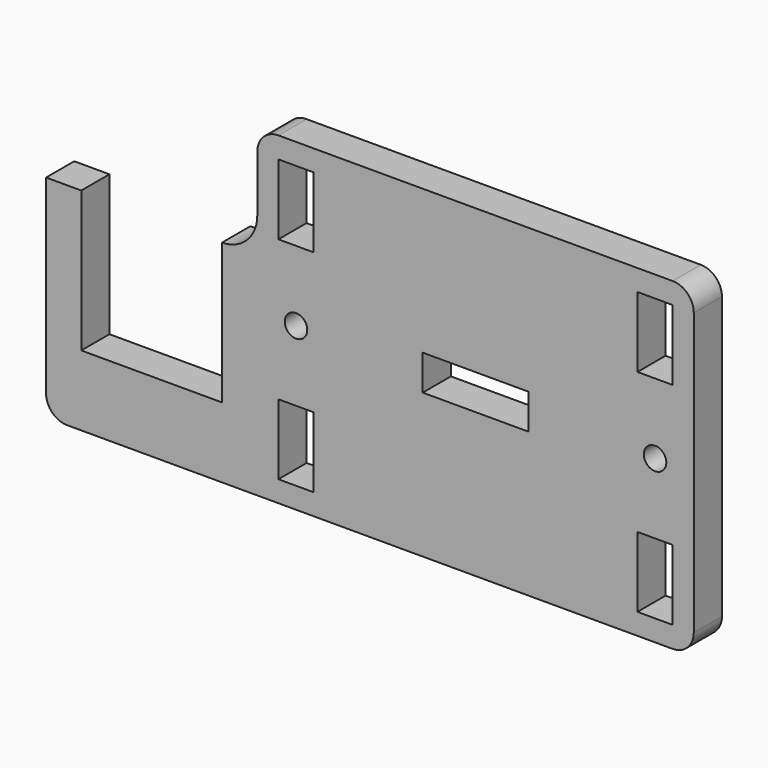
from build123d import *

# Parameters (mm, degrees)
F1_W     = 5
F1_H     = 10
F1_R     = 1.6
F1_W_2   = 15
F1_H_2   = 5
F2_DEPTH = 5


with BuildPart() as f2:
    # F1 (on Front) → F2 (new body)
    with BuildSketch(Plane.XZ):
        with BuildLine():
            Line((-21, 35), (-21, 27))
            ThreePointArc((-21, 27), (-22.4644660941, 23.4644660941), (-26, 22))
            Line((-26, 22), (-26, 2))
            Line((-26, 2), (-46.0000009239, 2))
            Line((-46.0000009239, 2), (-46.0000009239, 22.0000018477))
            Line((-46.0000009239, 22.0000018477), (-51, 22.0000018477))
            Line((-51, 22.0000018477), (-51, -5))
            ThreePointArc((-51, -5), (-50.1213203436, -7.1213203436), (-48, -8))
            Line((-48, -8), (38, -8))
            ThreePointArc((38, -8), (40.1213203436, -7.1213203436), (41, -5))
            Line((41, -5), (41, 35))
            ThreePointArc((41, 35), (40.1213203436, 37.1213203436), (38, 38))
            Line((38, 38), (-18, 38))
            ThreePointArc((-18, 38), (-20.1213203436, 37.1213203436), (-21, 35))
        make_face()
        with Locations((-15.5, 0)):
            Rectangle(F1_W, F1_H, mode=Mode.SUBTRACT)
        with Locations((35.5, 0)):
            Rectangle(F1_W, F1_H, mode=Mode.SUBTRACT)
        with Locations((-15.5, 15)):
            Circle(F1_R, mode=Mode.SUBTRACT)
        with Locations((-15.5, 30)):
            Rectangle(F1_W, F1_H, mode=Mode.SUBTRACT)
        with Locations((10, 15)):
            Rectangle(F1_W_2, F1_H_2, mode=Mode.SUBTRACT)
        with Locations((35.5, 15)):
            Circle(F1_R, mode=Mode.SUBTRACT)
        with Locations((35.5, 30)):
            Rectangle(F1_W, F1_H, mode=Mode.SUBTRACT)
    extrude(amount=F2_DEPTH)


solid = f2.part
